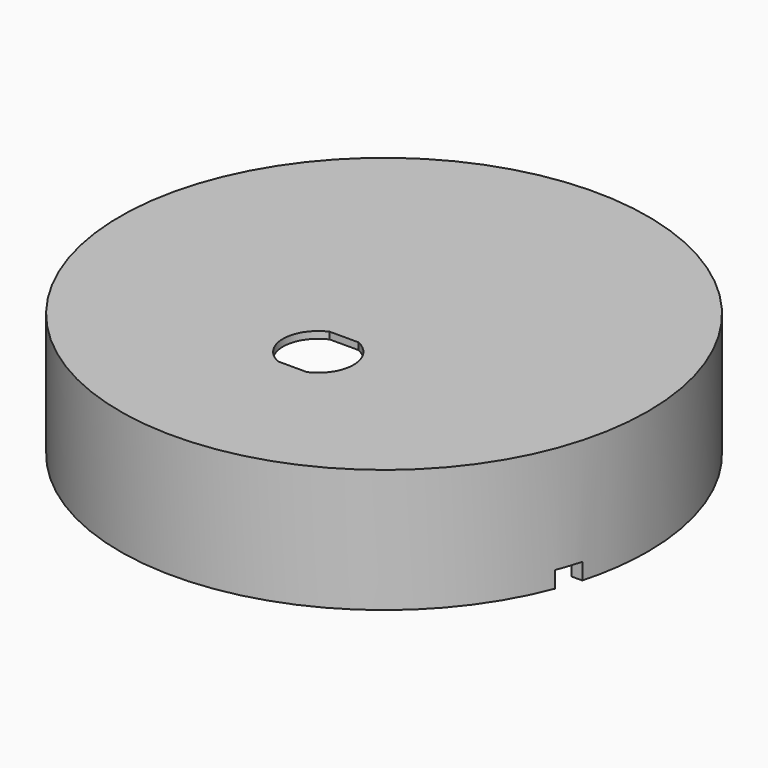
from build123d import *

# Parameters (mm, degrees)
F0_R      = 48.895
F1_DEPTH  = 22.86
F3_DEPTH  = 22.861
F5_R      = 46.99
F6_DEPTH  = 12.7
F7_R      = 44.45
F8_DEPTH  = 21.59
F9_W      = 4.445
F9_H      = 3.048
F10_DEPTH = 48.896
F11_SIZE  = 1.27
F12_R     = 0.635
F13_DEPTH = 48.896


with BuildPart() as f1:
    # F0 (on Top) → F1 (new body)
    with BuildSketch(Plane.XY):
        Circle(F0_R)
    extrude(amount=-F1_DEPTH)

    # F2 (on Top) → F3 (cut, through all)
    with BuildSketch(Plane.XY):
        with BuildLine():
            Line((-2.6737949155, -21.209), (2.6737949155, -21.209))
            ThreePointArc((2.6737949155, -21.209), (6.5405, -15.24), (2.6737949155, -9.271))
            Line((2.6737949155, -9.271), (-2.6737949155, -9.271))
            ThreePointArc((-2.6737949155, -9.271), (-6.5405, -15.24), (-2.6737949155, -21.209))
        make_face()
    extrude(amount=-F3_DEPTH, mode=Mode.SUBTRACT)

    # F5 (on offset) → F6 (cut)
    with BuildSketch(Plane(origin=(0, 0, -22.86), x_dir=(1, 0, 0), z_dir=(0, 0, -1))):
        Circle(F5_R)
    extrude(amount=-F6_DEPTH, mode=Mode.SUBTRACT)

    # F7 (on offset) → F8 (cut)
    with BuildSketch(Plane(origin=(0, 0, -22.86), x_dir=(1, 0, 0), z_dir=(0, 0, -1))):
        Circle(F7_R)
    extrude(amount=-F8_DEPTH, mode=Mode.SUBTRACT)

    # F9 (on Right) → F10 (cut, through all)
    with BuildSketch(Plane.YZ):
        with Locations((-15.24, -21.336)):
            Rectangle(F9_W, F9_H)
    extrude(amount=F10_DEPTH, mode=Mode.SUBTRACT)

    # F11
    f11_edges = [f1.edges().sort_by_distance(p)[0] for p in [
        (44.44345, -15.259091, -19.812),
    ]]
    chamfer(f11_edges, length=F11_SIZE)

    # F12 (on Front) → F13 (cut, through all)
    with BuildSketch(Plane.XZ):
        with Locations((0, -16.002)):
            Circle(F12_R)
    extrude(amount=-F13_DEPTH, mode=Mode.SUBTRACT)


solid = f1.part
